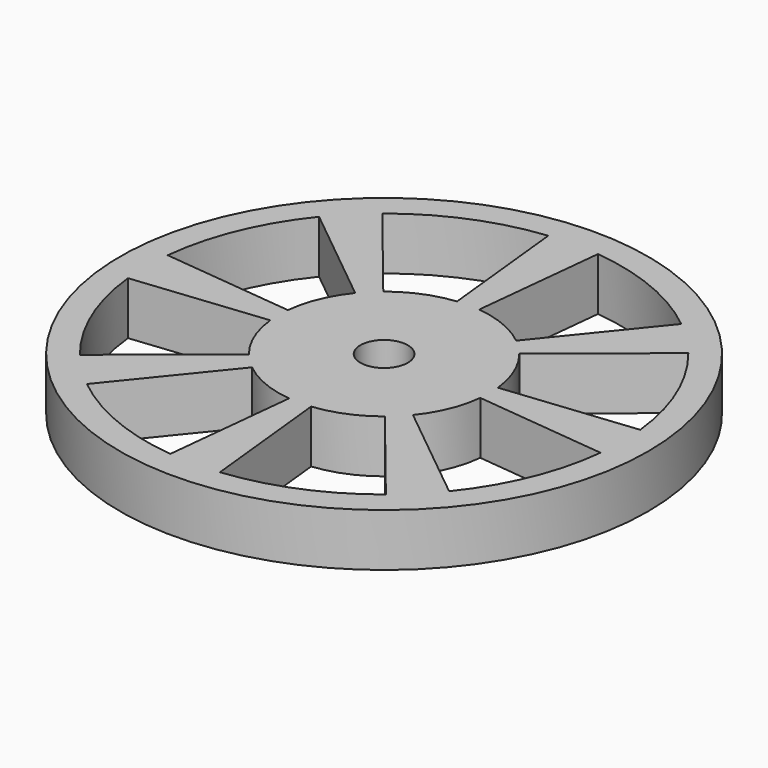
from build123d import *

# Parameters (mm, degrees)
F0_R     = 10
F0_R_2   = 0.9
F1_DEPTH = 2


with BuildPart() as f1:
    # F0 (on Top) → F1 (new body)
    with BuildSketch(Plane.XY):
        Circle(F0_R)
        with BuildLine():
            ThreePointArc((-2.517282, -3.108584), (-1.530734, -3.695518), (-0.418114, -3.978088))
            Line((-0.418114, -3.978088), (-0.940756, -8.950697))
            ThreePointArc((-0.940756, -8.950697), (-3.444151, -8.314916), (-5.663884, -6.994314))
            Line((-5.663884, -6.994314), (-2.517282, -3.108584))
        make_face(mode=Mode.SUBTRACT)
        with BuildLine():
            ThreePointArc((-6.994314, -5.663884), (-8.314916, -3.444151), (-8.950697, -0.940756))
            Line((-8.950697, -0.940756), (-3.978088, -0.418114))
            ThreePointArc((-3.978088, -0.418114), (-3.695518, -1.530734), (-3.108584, -2.517282))
            Line((-3.108584, -2.517282), (-6.994314, -5.663884))
        make_face(mode=Mode.SUBTRACT)
        with BuildLine():
            ThreePointArc((0.418114, -3.978088), (1.530734, -3.695518), (2.517282, -3.108584))
            Line((2.517282, -3.108584), (5.663884, -6.994314))
            ThreePointArc((5.663884, -6.994314), (3.444151, -8.314916), (0.940756, -8.950697))
            Line((0.940756, -8.950697), (0.418114, -3.978088))
        make_face(mode=Mode.SUBTRACT)
        with BuildLine():
            Line((6.994314, -5.663884), (3.108584, -2.517282))
            ThreePointArc((3.108584, -2.517282), (3.695518, -1.530734), (3.978088, -0.418114))
            Line((3.978088, -0.418114), (8.950697, -0.940756))
            ThreePointArc((8.950697, -0.940756), (8.314916, -3.444151), (6.994314, -5.663884))
        make_face(mode=Mode.SUBTRACT)
        with BuildLine():
            Line((-6.994314, 5.663884), (-3.108584, 2.517282))
            ThreePointArc((-3.108584, 2.517282), (-3.695518, 1.530734), (-3.978088, 0.418114))
            Line((-3.978088, 0.418114), (-8.950697, 0.940756))
            ThreePointArc((-8.950697, 0.940756), (-8.314916, 3.444151), (-6.994314, 5.663884))
        make_face(mode=Mode.SUBTRACT)
        with BuildLine():
            Line((-0.940756, 8.950697), (-0.418114, 3.978088))
            ThreePointArc((-0.418114, 3.978088), (-1.530734, 3.695518), (-2.517282, 3.108584))
            Line((-2.517282, 3.108584), (-5.663884, 6.994314))
            ThreePointArc((-5.663884, 6.994314), (-3.444151, 8.314916), (-0.940756, 8.950697))
        make_face(mode=Mode.SUBTRACT)
        Circle(F0_R_2, mode=Mode.SUBTRACT)
        with BuildLine():
            ThreePointArc((3.978088, 0.418114), (3.695518, 1.530734), (3.108584, 2.517282))
            Line((3.108584, 2.517282), (6.994314, 5.663884))
            ThreePointArc((6.994314, 5.663884), (8.314916, 3.444151), (8.950697, 0.940756))
            Line((8.950697, 0.940756), (3.978088, 0.418114))
        make_face(mode=Mode.SUBTRACT)
        with BuildLine():
            Line((5.663884, 6.994314), (2.517282, 3.108584))
            ThreePointArc((2.517282, 3.108584), (1.530734, 3.695518), (0.418114, 3.978088))
            Line((0.418114, 3.978088), (0.940756, 8.950697))
            ThreePointArc((0.940756, 8.950697), (3.444151, 8.314916), (5.663884, 6.994314))
        make_face(mode=Mode.SUBTRACT)
    extrude(amount=F1_DEPTH)


solid = f1.part
